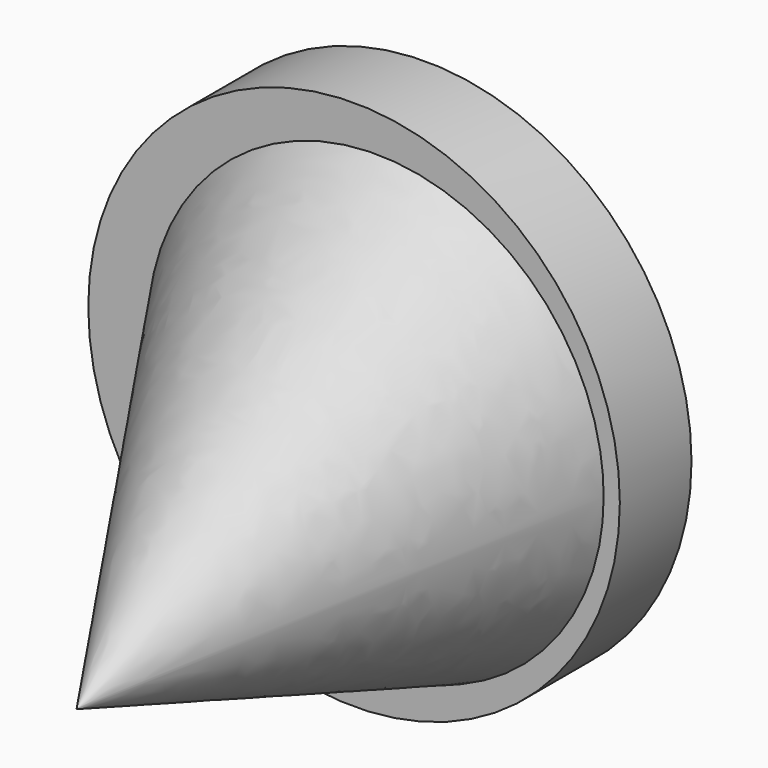
from build123d import *

# Parameters (mm, degrees)
F0_R      = 75.353158
F3_FACE_R = 75.353158
F4_DEPTH  = 25.4


with BuildPart() as f3:
    # F0 (on Front) → F3 section 0
    with BuildSketch(Plane.XZ, mode=Mode.PRIVATE) as f3_s0:
        Circle(F0_R)
    loft([Vertex(43.22736, -177.8, 0), f3_s0.sketch])

    # F3_face (on face) → F4 (join)
    with BuildSketch(Plane(origin=(0, 0, 0), x_dir=(-1, 0, 0), z_dir=(0, 1, 0))):
        Circle(F3_FACE_R)
    extrude(amount=-F4_DEPTH)


solid = f3.part
